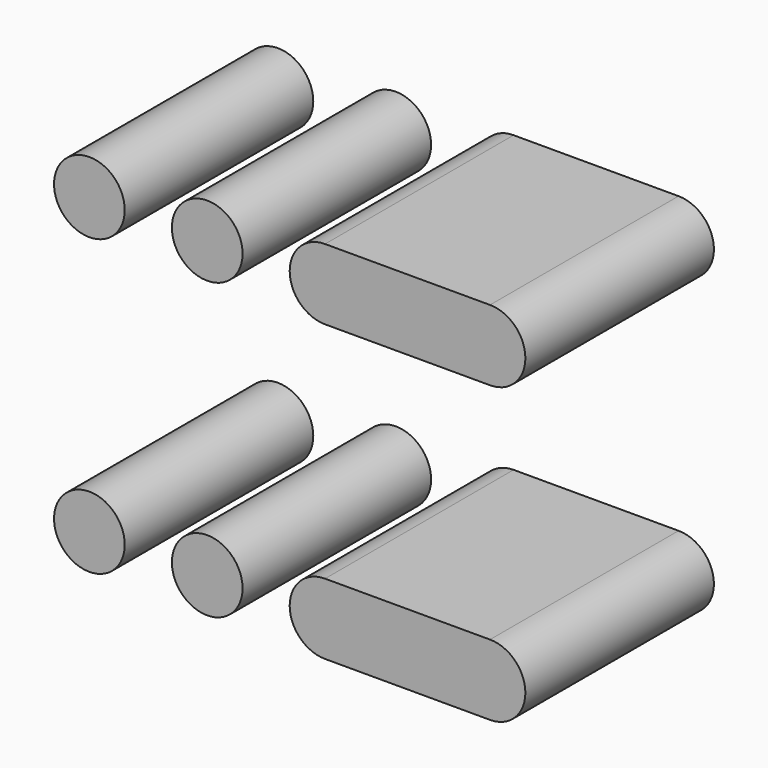
from build123d import *

# Parameters (mm, degrees)
CYLINDER005_R     = 1.5
CYLINDER005_DEPTH = 10
CYLINDER007_R     = 1.5
CYLINDER007_DEPTH = 10
BOX010_W          = 7
BOX010_H          = 10
BOX010_DEPTH      = 3
CYLINDER008_R     = 1.5
CYLINDER008_DEPTH = 10
CYLINDER009_R     = 1.5
CYLINDER009_DEPTH = 10
CYLINDER011_R     = 1.5
CYLINDER011_DEPTH = 10
CYLINDER010_R     = 1.5
CYLINDER010_DEPTH = 10
BOX011_W          = 7
BOX011_H          = 10
BOX011_DEPTH      = 3
CYLINDER004_R     = 1.5
CYLINDER004_DEPTH = 10
CYLINDER006_R     = 1.5
CYLINDER006_DEPTH = 10


with BuildPart() as cylinder005:
    # Cylinder005 → Cylinder005 (new body)
    with BuildSketch(Plane(origin=(24, 0, -16), x_dir=(1, 0, 0), z_dir=(0, 1, 0))):
        Circle(CYLINDER005_R)
    extrude(amount=CYLINDER005_DEPTH)


with BuildPart() as fusion007:
    # Cylinder007 → Cylinder007 (new body)
    with BuildSketch(Plane(origin=(19, 0, -16), x_dir=(1, 0, 0), z_dir=(0, 1, 0))):
        Circle(CYLINDER007_R)
    extrude(amount=CYLINDER007_DEPTH)

    # Fusion007: union Cylinder005
    add(cylinder005.part)


with BuildPart() as fusion007_1:
    # Fusion007 placement: moved
    add(fusion007.part.moved(Location((-12, 0, 0))))


with BuildPart() as cube009:
    # Box010 → Box010 (new body)
    with BuildSketch(Plane(origin=(7, 0, -5), x_dir=(1, 0, 0), z_dir=(0, 0, 1))):
        with Locations((3.5, 5)):
            Rectangle(BOX010_W, BOX010_H)
    extrude(amount=BOX010_DEPTH)


with BuildPart() as cylinder008:
    # Cylinder008 → Cylinder008 (new body)
    with BuildSketch(Plane(origin=(14, 0, -3.5), x_dir=(1, 0, 0), z_dir=(0, 1, 0))):
        Circle(CYLINDER008_R)
    extrude(amount=CYLINDER008_DEPTH)


with BuildPart() as fusion006:
    # Cylinder009 → Cylinder009 (new body)
    with BuildSketch(Plane(origin=(7, 0, -3.5), x_dir=(1, 0, 0), z_dir=(0, 1, 0))):
        Circle(CYLINDER009_R)
    extrude(amount=CYLINDER009_DEPTH)

    # Fusion006: union Cube009, Cylinder008
    add(cube009.part)
    add(cylinder008.part)


with BuildPart() as fusion006_1:
    # Fusion006 placement: moved
    add(fusion006.part.moved(Location((10, 0, 0))))


with BuildPart() as cylinder011:
    # Cylinder011 → Cylinder011 (new body)
    with BuildSketch(Plane(origin=(7, 0, -16), x_dir=(1, 0, 0), z_dir=(0, 1, 0))):
        Circle(CYLINDER011_R)
    extrude(amount=CYLINDER011_DEPTH)


with BuildPart() as cylinder010:
    # Cylinder010 → Cylinder010 (new body)
    with BuildSketch(Plane(origin=(14, 0, -16), x_dir=(1, 0, 0), z_dir=(0, 1, 0))):
        Circle(CYLINDER010_R)
    extrude(amount=CYLINDER010_DEPTH)


with BuildPart() as fusion005:
    # Box011 → Box011 (new body)
    with BuildSketch(Plane(origin=(7, 0, -17.5), x_dir=(1, 0, 0), z_dir=(0, 0, 1))):
        with Locations((3.5, 5)):
            Rectangle(BOX011_W, BOX011_H)
    extrude(amount=BOX011_DEPTH)

    # Fusion005: union Cylinder011, Cylinder010
    add(cylinder011.part)
    add(cylinder010.part)


with BuildPart() as fusion005_1:
    # Fusion005 placement: moved
    add(fusion005.part.moved(Location((10, 0, 0))))


with BuildPart() as cylinder004:
    # Cylinder004 → Cylinder004 (new body)
    with BuildSketch(Plane(origin=(24, 0, -3.5), x_dir=(1, 0, 0), z_dir=(0, 1, 0))):
        Circle(CYLINDER004_R)
    extrude(amount=CYLINDER004_DEPTH)


with BuildPart() as fusion009:
    # Cylinder006 → Cylinder006 (new body)
    with BuildSketch(Plane(origin=(19, 0, -3.5), x_dir=(1, 0, 0), z_dir=(0, 1, 0))):
        Circle(CYLINDER006_R)
    extrude(amount=CYLINDER006_DEPTH)

    # Fusion008: union Cylinder004
    add(cylinder004.part)


with BuildPart() as fusion009_1:
    # Fusion008 placement: moved
    add(fusion009.part.moved(Location((-12, 0, 0))))

    # Fusion009: union Fusion007, Fusion006, Fusion005
    add(fusion007_1.part)
    add(fusion006_1.part)
    add(fusion005_1.part)


solid = fusion009_1.part
